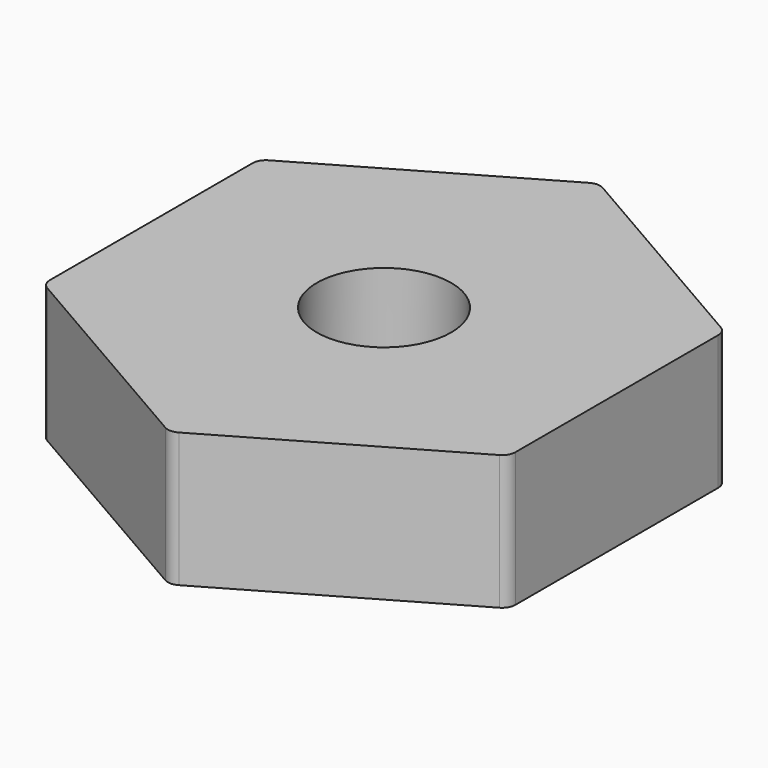
from build123d import *

# Parameters (mm, degrees)
F0_R     = 6.35
F1_DEPTH = 12.7
F2_R     = 1.27


with BuildPart() as f1:
    # F0 (on Top) → F1 (new body)
    with BuildSketch(Plane.XY):
        Polygon((-21.997045, 12.7), (-21.997045, -12.7), (0, -25.4), (21.997045, -12.7), (21.997045, 12.7), (0, 25.4), align=None)
        Circle(F0_R, mode=Mode.SUBTRACT)
    extrude(amount=F1_DEPTH)

    # F2
    f2_edges = [f1.edges().sort_by_distance(p)[0] for p in [
        (21.997045, -12.7, 6.35),
        (0, -25.4, 6.35),
        (21.997045, 12.7, 6.35),
        (-21.997045, -12.7, 6.35),
        (-21.997045, 12.7, 6.35),
        (0, 25.4, 6.35),
    ]]
    fillet(f2_edges, radius=F2_R)


solid = f1.part
